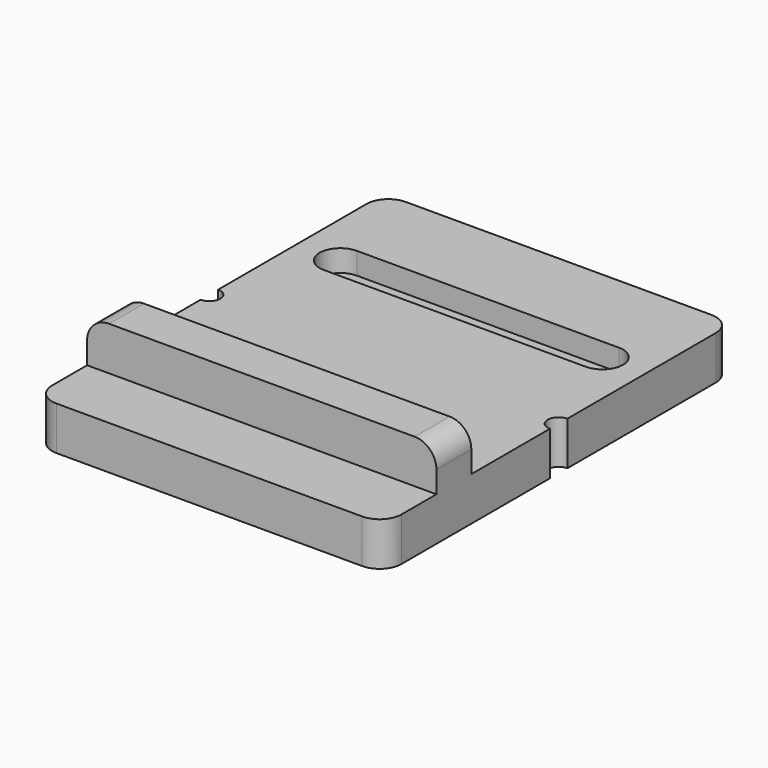
from build123d import *

# Parameters (mm, degrees)
F3_DEPTH  = 10
F4_W      = 80
F4_H      = 10
F5_DEPTH  = 10
F6_R      = 5
F8_DEPTH  = 10
F10_DEPTH = 5
F12_DEPTH = 10


with BuildPart() as f3:
    # F2 (on Top) → F3 (new body)
    with BuildSketch(Plane.XY):
        with BuildLine():
            Line((35, 50), (-35, 50))
            ThreePointArc((-35, 50), (-38.5355339059, 48.5355339059), (-40, 45))
            Line((-40, 45), (-40, -45))
            ThreePointArc((-40, -45), (-38.5355339059, -48.5355339059), (-35, -50))
            Line((-35, -50), (35, -50))
            ThreePointArc((35, -50), (38.5355339059, -48.5355339059), (40, -45))
            Line((40, -45), (40, 45))
            ThreePointArc((40, 45), (38.5355339059, 48.5355339059), (35, 50))
        make_face()
    extrude(amount=F3_DEPTH)

    # F4 (on face) → F5 (join)
    with BuildSketch(Plane.XY.offset(10)):
        with Locations((0, -30)):
            Rectangle(F4_W, F4_H)
    extrude(amount=F5_DEPTH)

    # F6
    f6_edges = [f3.edges().sort_by_distance(p)[0] for p in [
        (40, -30, 20),
        (-40, -30, 20),
    ]]
    fillet(f6_edges, radius=F6_R)

    # F7 (on face) → F8 (cut, through all)
    with BuildSketch(Plane.XY.offset(10)):
        with BuildLine():
            Line((27.587, 27.413), (-27.587, 27.413))
            ThreePointArc((-27.587, 27.413), (-29.293248663, 26.706248663), (-30, 25))
            ThreePointArc((-30, 25), (-29.293248663, 23.293751337), (-27.587, 22.587))
            Line((-27.587, 22.587), (27.587, 22.587))
            ThreePointArc((27.587, 22.587), (29.293248663, 23.293751337), (30, 25))
            ThreePointArc((30, 25), (29.293248663, 26.706248663), (27.587, 27.413))
        make_face()
    extrude(amount=-F8_DEPTH, mode=Mode.SUBTRACT)

    # F9 (on face) → F10 (cut)
    with BuildSketch(Plane.XY.offset(10)):
        with BuildLine():
            Line((30, 29.7371), (-30, 29.7371))
            ThreePointArc((-30, 29.7371), (-34.7371, 25), (-30, 20.2629))
            Line((-30, 20.2629), (30, 20.2629))
            ThreePointArc((30, 20.2629), (34.7371, 25), (30, 29.7371))
        make_face()
    extrude(amount=-F10_DEPTH, mode=Mode.SUBTRACT)

    # F11 (on face) → F12 (cut, through all)
    with BuildSketch(Plane.XY.offset(10)):
        with BuildLine():
            ThreePointArc((-40, -2.5), (-37.5, 0), (-40, 2.5))
            Line((-40, 2.5), (-40, -2.5))
        make_face()
        with BuildLine():
            Line((40, -2.5), (40, 2.5))
            ThreePointArc((40, 2.5), (37.5, 0), (40, -2.5))
        make_face()
    extrude(amount=-F12_DEPTH, mode=Mode.SUBTRACT)


solid = f3.part
